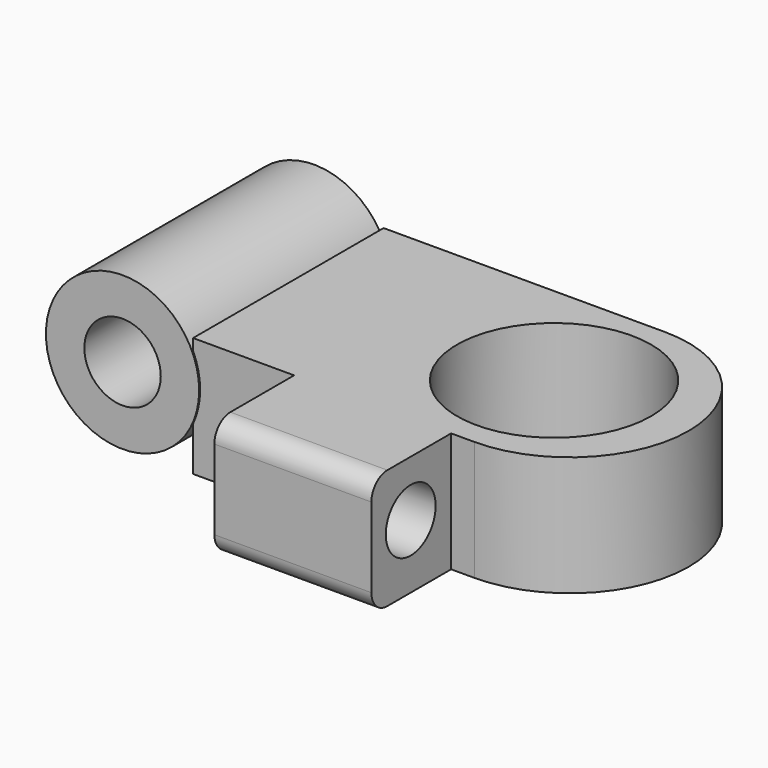
from build123d import *

# Parameters (mm, degrees)
F0_R     = 19.20551
F0_R_2   = 9.580083
F1_DEPTH = 60
F2_R     = 24.322186
F2_W     = 39.359974
F2_H     = 24.98503
F3_DEPTH = 30
F4_R     = 5
F5_R     = 7.812244
F6_DEPTH = 45


with BuildPart() as f1:
    # F0 (on Front) → F1 (new body)
    with BuildSketch(Plane.XZ):
        with Locations((-77.851459, 19.139083)):
            Circle(F0_R)
        with Locations((-77.851459, 19.139083)):
            Circle(F0_R_2, mode=Mode.SUBTRACT)
    extrude(amount=F1_DEPTH)

    # F2 (on Top) → F3 (join)
    with BuildSketch(Plane.XY):
        with BuildLine():
            Line((10.089813, 0), (-60.415883, 0))
            Line((-60.415883, 0), (-60.415883, -59.699342))
            Line((-60.415883, -59.699342), (-35.088591, -59.699342))
            Line((-35.088591, -59.699342), (4.271383, -59.699342))
            Line((4.271383, -59.699342), (10.089813, -59.699342))
            ThreePointArc((10.089813, -59.699342), (39.939484, -29.849671), (10.089813, 0))
        make_face()
        with Locations((5.982686, -29.580405)):
            Circle(F2_R, mode=Mode.SUBTRACT)
        with Locations((-15.408604, -72.191857)):
            Rectangle(F2_W, F2_H)
    extrude(amount=F3_DEPTH)

    # F4
    f4_edges = [f1.edges().sort_by_distance(p)[0] for p in [
        (-15.408604, -84.684372, 30),
        (-15.408604, -84.684372, 0),
    ]]
    fillet(f4_edges, radius=F4_R)

    # F5 (on face) → F6 (cut)
    with BuildSketch(Plane.YZ.offset(4.271383)):
        with Locations((-72.369397, 15.990797)):
            Circle(F5_R)
    extrude(amount=-F6_DEPTH, mode=Mode.SUBTRACT)


solid = f1.part
